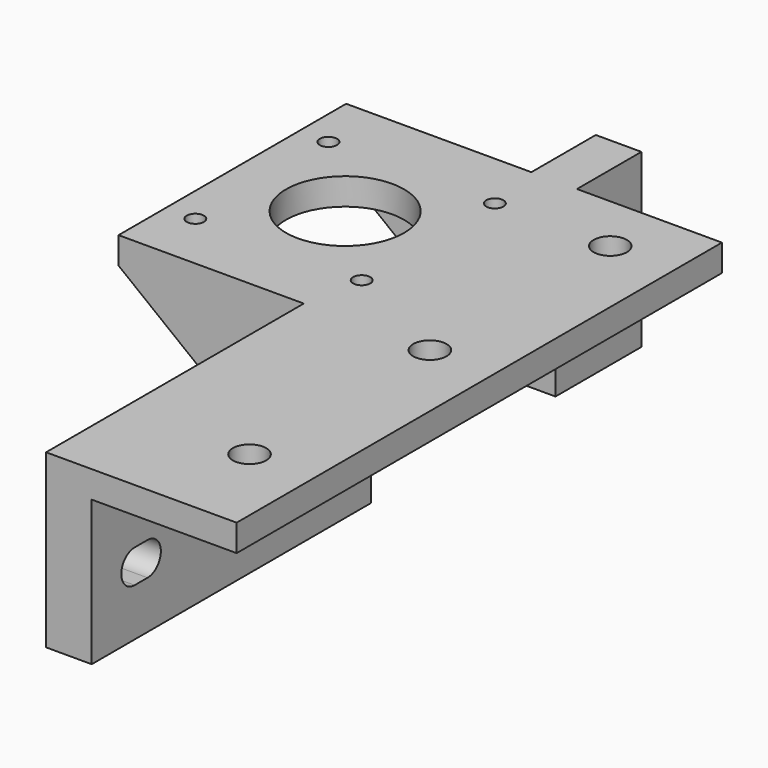
from build123d import *

# Parameters (mm, degrees)
PAD_DEPTH         = 60
PAD_DEPTH_BACK    = 53
SKETCH001_R       = 11
SKETCH001_R_2     = 1.6
SKETCH001_R_3     = 3.1
SKETCH001_W       = 34.5
SKETCH001_H       = 60
POCKET_DEPTH      = 27.001
POCKET_DEPTH_BACK = -5.001
POCKET001_DEPTH   = 43.001
PAD001_DEPTH      = 5
PAD002_DEPTH      = 5
SKETCH005_W       = 43
SKETCH005_H       = 27
POCKET002_DEPTH   = 43.001
SKETCH006_W       = 8.5
SKETCH006_H       = 32
PAD003_DEPTH      = 15
SKETCH007_R       = 3.1
POCKET003_DEPTH   = 43.001


with BuildPart() as part:
    # Sketch → Pad (new body, two sides)
    with BuildSketch(Plane.XZ) as pad_sk:
        Polygon((-43, 5), (27, 5), (27, 0), (0, 0), (0, -27), (-8.5, -27), (-8.5, 0), (-43, 0), align=None)
    extrude(amount=PAD_DEPTH)
    extrude(pad_sk.sketch, amount=-PAD_DEPTH_BACK)

    # Sketch001 → Pocket (cut, two sides)
    with BuildSketch(Plane.XY) as pocket_sk:
        with Locations((-22, 26.5)):
            Circle(SKETCH001_R)
        with Locations((-37.5, 42)):
            Circle(SKETCH001_R_2)
        with Locations((-6.5, 42)):
            Circle(SKETCH001_R_2)
        with Locations((-37.5, 11)):
            Circle(SKETCH001_R_2)
        with Locations((-6.5, 11)):
            Circle(SKETCH001_R_2)
        with Locations((15, 42)):
            Circle(SKETCH001_R_3)
        with Locations((15, -42)):
            Circle(SKETCH001_R_3)
        with Locations((15, 0)):
            Circle(SKETCH001_R_3)
        with Locations((-25.75, -30)):
            Rectangle(SKETCH001_W, SKETCH001_H)
    extrude(amount=-POCKET_DEPTH, mode=Mode.SUBTRACT)
    extrude(pocket_sk.sketch, amount=-POCKET_DEPTH_BACK, mode=Mode.SUBTRACT)

    # Sketch002 → Pocket001 (cut, through all)
    with BuildSketch(Plane.YZ):
        with BuildLine():
            ThreePointArc((-50, -11.9), (-53.1, -15), (-50, -18.1))
            Line((-50, -18.1), (-47, -18.1))
            ThreePointArc((-47, -18.1), (-43.9, -15), (-47, -11.9))
            Line((-50, -11.9), (-47, -11.9))
        make_face()
        with BuildLine():
            ThreePointArc((-8, -11.9), (-11.1, -15), (-8, -18.1))
            Line((-8, -18.1), (-5, -18.1))
            ThreePointArc((-5, -18.1), (-1.9, -15), (-5, -11.9))
            Line((-8, -11.9), (-5, -11.9))
        make_face()
    extrude(amount=-POCKET001_DEPTH, mode=Mode.SUBTRACT)

    # Sketch003 → Pad001 (join)
    with BuildSketch(Plane.XZ):
        Polygon((-43, 5), (-43, 0), (-8.5, -27), (0, -27), (0, 5), align=None)
    extrude(amount=-PAD001_DEPTH)

    # Sketch004 (on Face1 of Pad001) → Pad002 (join)
    with BuildSketch(Plane(origin=(0, 53, 0), x_dir=(1, 0, 0), z_dir=(0, 1, 0))):
        Polygon((-43, -5), (0, -5), (0, 27), (-8.5, 27), (-43, 0), align=None)
    extrude(amount=-PAD002_DEPTH)

    # Sketch005 → Pocket002 (cut, through all)
    with BuildSketch(Plane.YZ):
        with Locations((26.5, -13.5)):
            Rectangle(SKETCH005_W, SKETCH005_H)
    extrude(amount=-POCKET002_DEPTH, mode=Mode.SUBTRACT)

    # Sketch006 (on Face4 of Pocket002) → Pad003 (join)
    with BuildSketch(Plane(origin=(0, 53, 0), x_dir=(1, 0, 0), z_dir=(0, 1, 0))):
        with Locations((-4.25, 11)):
            Rectangle(SKETCH006_W, SKETCH006_H)
    extrude(amount=PAD003_DEPTH)

    # Sketch007 → Pocket003 (cut, through all)
    with BuildSketch(Plane.YZ):
        with Locations((60.5, -15)):
            Circle(SKETCH007_R)
    extrude(amount=-POCKET003_DEPTH, mode=Mode.SUBTRACT)


solid = part.part
